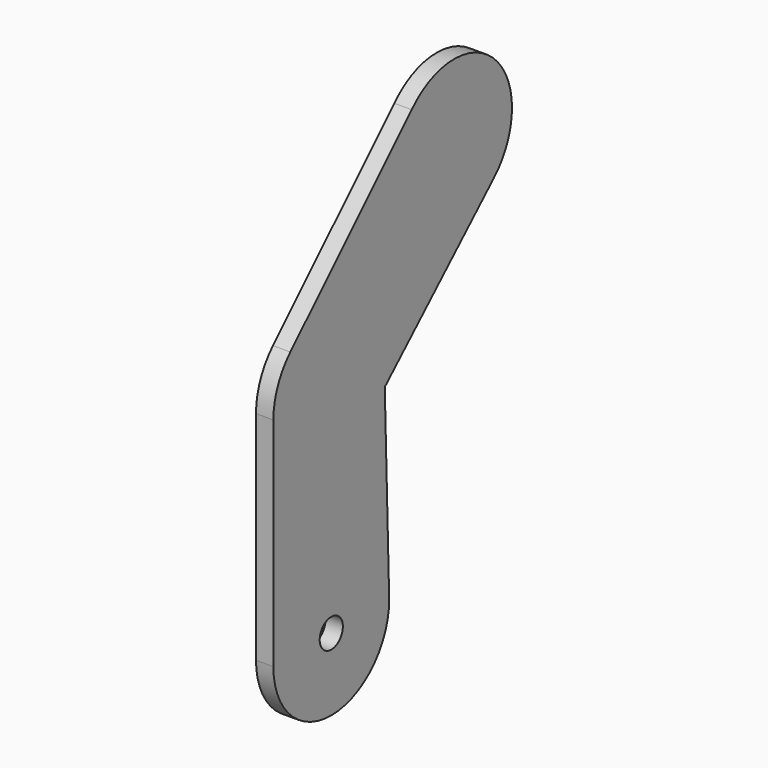
from build123d import *

# Parameters (mm, degrees)
F1_DEPTH = 6
F2_R     = 5
F3_DEPTH = 6


with BuildPart() as f1:
    # F0 (on Right) → F1 (new body)
    with BuildSketch(Plane.YZ):
        with BuildLine():
            ThreePointArc((-25, 0), (0, -25), (25, 0))
            ThreePointArc((25, 0), (24.997328528, 0.3654674576), (24.989314683, 0.7308568083))
            ThreePointArc((24.989314683, 0.7308568083), (17.4173559961, 17.9342050313), (0, 25))
            ThreePointArc((0, 25), (-17.6776695297, 17.6776695297), (-25, 0))
        make_face()
        with BuildLine():
            ThreePointArc((0, 25), (17.4173559961, 17.9342050313), (24.989314683, 0.7308568083))
            Line((24.989314683, 0.7308568083), (23.0969883128, 65.4329141909))
            ThreePointArc((23.0969883128, 65.4329141909), (13.8892558255, 54.2132596924), (0, 50))
            Line((0, 50), (0, 25))
        make_face()
        with BuildLine():
            Line((-25, 75), (-25, 0))
            ThreePointArc((-25, 0), (-17.6776695297, 17.6776695297), (0, 25))
            Line((0, 25), (0, 50))
            ThreePointArc((0, 50), (-17.6776695297, 57.3223304703), (-25, 75))
        make_face()
        with BuildLine():
            Line((0, 75), (23.0969883128, 65.4329141909))
            ThreePointArc((23.0969883128, 65.4329141909), (24.5196320101, 70.1227419496), (25, 75))
            ThreePointArc((25, 75), (23.0969883128, 84.5670858091), (17.6776695297, 92.6776695297))
            Line((17.6776695297, 92.6776695297), (0, 75))
        make_face()
        with BuildLine():
            ThreePointArc((0, 50), (13.8892558255, 54.2132596924), (23.0969883128, 65.4329141909))
            Line((23.0969883128, 65.4329141909), (0, 75))
            Line((0, 75), (0, 50))
        make_face()
        with BuildLine():
            ThreePointArc((25, 75), (24.5196320101, 70.1227419496), (23.0969883128, 65.4329141909))
            Line((23.0969883128, 65.4329141909), (70.1863286533, 109.8461009142))
            ThreePointArc((70.1863286533, 109.8461009142), (52.6675411314, 103.035680061), (35.3553390593, 110.3553390593))
            Line((35.3553390593, 110.3553390593), (17.6776695297, 92.6776695297))
            ThreePointArc((17.6776695297, 92.6776695297), (23.0969883128, 84.5670858091), (25, 75))
        make_face()
        with BuildLine():
            ThreePointArc((-17.6737877377, 92.6815504694), (-23.0959378836, 84.569621376), (-25, 75))
            ThreePointArc((-25, 75), (-17.6776695297, 57.3223304703), (0, 50))
            Line((0, 50), (0, 75))
            Line((0, 75), (17.6776695297, 92.6776695297))
            ThreePointArc((17.6776695297, 92.6776695297), (0.0027445402, 99.9999998493), (-17.6737877377, 92.6815504694))
        make_face()
        with BuildLine():
            ThreePointArc((35.3553390593, 110.3553390593), (52.6675411314, 103.035680061), (70.1863286533, 109.8461009142))
            ThreePointArc((70.1863286533, 109.8461009142), (75.9876704424, 118.1292972041), (78.033008589, 128.033008589))
            ThreePointArc((78.033008589, 128.033008589), (62.1819121392, 151.298811043), (34.7292034826, 145.0615352026))
            ThreePointArc((34.7292034826, 145.0615352026), (28.0370760813, 127.5820561841), (35.3553390593, 110.3553390593))
        make_face()
        with BuildLine():
            Line((34.7292034826, 145.0615352026), (-17.6737877377, 92.6815504694))
            ThreePointArc((-17.6737877377, 92.6815504694), (0.0027445402, 99.9999998493), (17.6776695297, 92.6776695297))
            Line((17.6776695297, 92.6776695297), (35.3553390593, 110.3553390593))
            ThreePointArc((35.3553390593, 110.3553390593), (28.0370760813, 127.5820561841), (34.7292034826, 145.0615352026))
        make_face()
    extrude(amount=F1_DEPTH)

    # F2 (on face) → F3 (cut)
    with BuildSketch(Plane.YZ.offset(6)):
        Circle(F2_R)
    extrude(amount=-F3_DEPTH, mode=Mode.SUBTRACT)


solid = f1.part
